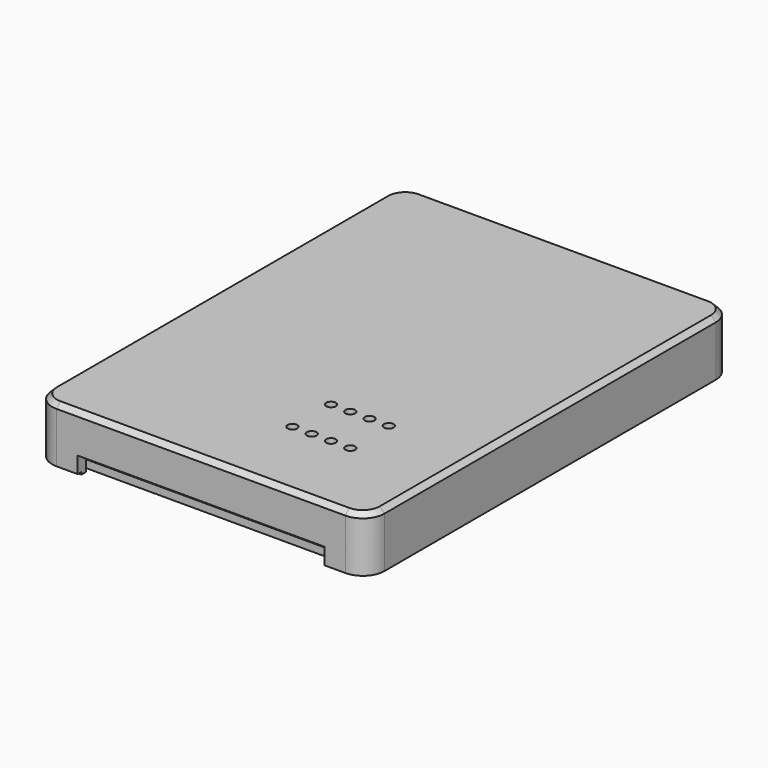
from build123d import *

# Parameters (mm, degrees)
F1_DEPTH  = 11.5
F3_W      = 51.2
F3_H      = 3.4
F5_DEPTH  = 25
F2_W      = 51.2
F2_H      = 3.4
F6_DEPTH  = 25
F4_W      = 12.7
F4_H      = 3.4
F7_DEPTH  = 25
F9_DEPTH  = 0.5
F11_DEPTH = 10
F12_SIZE  = 1
F13_R     = 1
F14_DEPTH = 12.001
F15_R     = 1.5
F16_DEPTH = 1.6
F17_D     = 2.5
F17_DEPTH = 10
F17_TIP   = 0.7510757738


with BuildPart() as f1:
    # F0 (on Top) → F1 (new body)
    with BuildSketch(Plane.XY):
        with BuildLine():
            ThreePointArc((-34.5, -43), (-33.1819805153, -46.1819805153), (-30, -47.5))
            Line((-30, -47.5), (30, -47.5))
            ThreePointArc((30, -47.5), (33.1819805153, -46.1819805153), (34.5, -43))
            Line((34.5, -43), (34.5, 43))
            ThreePointArc((34.5, 43), (33.1819805153, 46.1819805153), (30, 47.5))
            Line((30, 47.5), (-30, 47.5))
            ThreePointArc((-30, 47.5), (-33.1819805153, 46.1819805153), (-34.5, 43))
            Line((-34.5, 43), (-34.5, -43))
        make_face()
    extrude(amount=F1_DEPTH)

    # F3 (on face) → F5 (cut)
    with BuildSketch(Plane(origin=(0, 47.5, 0), x_dir=(-1, 0, 0), z_dir=(0, 1, 0))):
        with Locations((0, 1.7)):
            Rectangle(F3_W, F3_H)
    extrude(amount=-F5_DEPTH, mode=Mode.SUBTRACT)

    # F2 (on face) → F6 (cut)
    with BuildSketch(Plane.XZ.offset(47.5)):
        with Locations((0, 1.7)):
            Rectangle(F2_W, F2_H)
    extrude(amount=-F6_DEPTH, mode=Mode.SUBTRACT)

    # F4 (on face) → F7 (cut)
    with BuildSketch(Plane(origin=(-34.5, 0, 0), x_dir=(0, -1, 0), z_dir=(-1, 0, 0))):
        with Locations((-12, 1.7)):
            Rectangle(F4_W, F4_H)
    extrude(amount=-F7_DEPTH, mode=Mode.SUBTRACT)

    # F8 (on face) → F9 (join)
    with BuildSketch(Plane(origin=(0, 0, 0), x_dir=(1, 0, 0), z_dir=(0, 0, -1))):
        with BuildLine():
            ThreePointArc((-30, 46.5), (-32.4748737342, 45.4748737342), (-33.5, 43))
            Line((-33.5, 43), (-33.5, -5.65))
            Line((-33.5, -5.65), (-9.5, -5.65))
            Line((-9.5, -5.65), (-9.5, -18.35))
            Line((-9.5, -18.35), (-33.5, -18.35))
            Line((-33.5, -18.35), (-33.5, -43))
            ThreePointArc((-33.5, -43), (-32.4748737342, -45.4748737342), (-30, -46.5))
            Line((-30, -46.5), (-25.6, -46.5))
            Line((-25.6, -46.5), (-25.6, -22.5))
            Line((-25.6, -22.5), (25.6, -22.5))
            Line((25.6, -22.5), (25.6, -46.5))
            Line((25.6, -46.5), (30, -46.5))
            ThreePointArc((30, -46.5), (32.4748737342, -45.4748737342), (33.5, -43))
            Line((33.5, -43), (33.5, 43))
            ThreePointArc((33.5, 43), (32.4748737342, 45.4748737342), (30, 46.5))
            Line((30, 46.5), (25.6, 46.5))
            Line((25.6, 46.5), (25.6, 22.5))
            Line((25.6, 22.5), (-25.6, 22.5))
            Line((-25.6, 22.5), (-25.6, 46.5))
            Line((-25.6, 46.5), (-30, 46.5))
        make_face()
    extrude(amount=F9_DEPTH)

    # F10 (on face) → F11 (cut)
    with BuildSketch(Plane(origin=(0, 0, -0.5), x_dir=(1, 0, 0), z_dir=(0, 0, -1))):
        with BuildLine():
            Line((27.5, 45.3), (-27.5, 45.3))
            Line((-27.5, 45.3), (-27.5, 43))
            ThreePointArc((-27.5, 43), (-28.232233047, 41.232233047), (-30, 40.5))
            Line((-30, 40.5), (-32.3, 40.5))
            Line((-32.3, 40.5), (-32.3, -40.5))
            Line((-32.3, -40.5), (-30, -40.5))
            ThreePointArc((-30, -40.5), (-28.232233047, -41.232233047), (-27.5, -43))
            Line((-27.5, -43), (-27.5, -45.3))
            Line((-27.5, -45.3), (27.5, -45.3))
            Line((27.5, -45.3), (27.5, -43))
            ThreePointArc((27.5, -43), (28.232233047, -41.232233047), (30, -40.5))
            Line((30, -40.5), (32.3, -40.5))
            Line((32.3, -40.5), (32.3, 40.5))
            Line((32.3, 40.5), (30, 40.5))
            ThreePointArc((30, 40.5), (28.232233047, 41.232233047), (27.5, 43))
            Line((27.5, 43), (27.5, 45.3))
        make_face()
    extrude(amount=-F11_DEPTH, mode=Mode.SUBTRACT)

    # F12
    f12_edges = [f1.edges().sort_by_distance(p)[0] for p in [
        (0, 47.5, 11.5),
        (-33.181981, 46.181981, 11.5),
        (-34.5, 0, 11.5),
        (-33.181981, -46.181981, 11.5),
        (0, -47.5, 11.5),
        (33.181981, -46.181981, 11.5),
        (34.5, 0, 11.5),
        (33.181981, 46.181981, 11.5),
    ]]
    chamfer(f12_edges, length=F12_SIZE)

    # F13 (on face) → F14 (cut, through all)
    with BuildSketch(Plane.XY.offset(11.5)):
        with Locations((5, -30)):
            Circle(F13_R)
        with Locations((9, -30)):
            Circle(F13_R)
        with Locations((13, -30)):
            Circle(F13_R)
        with Locations((17, -30)):
            Circle(F13_R)
        with Locations((5, -20)):
            Circle(F13_R)
        with Locations((9, -20)):
            Circle(F13_R)
        with Locations((13, -20)):
            Circle(F13_R)
        with Locations((17, -20)):
            Circle(F13_R)
    extrude(amount=-F14_DEPTH, mode=Mode.SUBTRACT)

    # F17
    with Locations(Plane(origin=(0, 0, -0.5), x_dir=(1, 0, 0), z_dir=(0, 0, -1))):
        with Locations((-30, 43), (30, 43), (30, -43), (-30, -43)):
            Hole(F17_D / 2, depth=F17_DEPTH)
            with Locations((0, 0, -(F17_DEPTH + F17_TIP / 2))):  # 118° drill point
                Cone(0, F17_D / 2, F17_TIP, mode=Mode.SUBTRACT)


with BuildPart() as f16:
    # F15 (on Top) → F16 (new body)
    with BuildSketch(Plane.XY):
        with BuildLine():
            ThreePointArc((-27.4, -44.1), (-27.1363961031, -44.7363961031), (-26.5, -45))
            Line((-26.5, -45), (26.5, -45))
            ThreePointArc((26.5, -45), (27.1363961031, -44.7363961031), (27.4, -44.1))
            Line((27.4, -44.1), (27.4, -43))
            ThreePointArc((27.4, -43), (28.1615223689, -41.1615223689), (30, -40.4))
            Line((30, -40.4), (31.1, -40.4))
            ThreePointArc((31.1, -40.4), (31.7363961031, -40.1363961031), (32, -39.5))
            Line((32, -39.5), (32, 39.5))
            ThreePointArc((32, 39.5), (31.7363961031, 40.1363961031), (31.1, 40.4))
            Line((31.1, 40.4), (30, 40.4))
            ThreePointArc((30, 40.4), (28.1615223689, 41.1615223689), (27.4, 43))
            Line((27.4, 43), (27.4, 44.1))
            ThreePointArc((27.4, 44.1), (27.1363961031, 44.7363961031), (26.5, 45))
            Line((26.5, 45), (-26.5, 45))
            ThreePointArc((-26.5, 45), (-27.1363961031, 44.7363961031), (-27.4, 44.1))
            Line((-27.4, 44.1), (-27.4, 43))
            ThreePointArc((-27.4, 43), (-28.1615223689, 41.1615223689), (-30, 40.4))
            Line((-30, 40.4), (-31.1, 40.4))
            ThreePointArc((-31.1, 40.4), (-31.7363961031, 40.1363961031), (-32, 39.5))
            Line((-32, 39.5), (-32, -39.5))
            ThreePointArc((-32, -39.5), (-31.7363961031, -40.1363961031), (-31.1, -40.4))
            Line((-31.1, -40.4), (-30, -40.4))
            ThreePointArc((-30, -40.4), (-28.1615223689, -41.1615223689), (-27.4, -43))
            Line((-27.4, -43), (-27.4, -44.1))
        make_face()
        with Locations((22.5, -21)):
            Circle(F15_R, mode=Mode.SUBTRACT)
    extrude(amount=F16_DEPTH)


solid = Compound([f1.part, f16.part])
